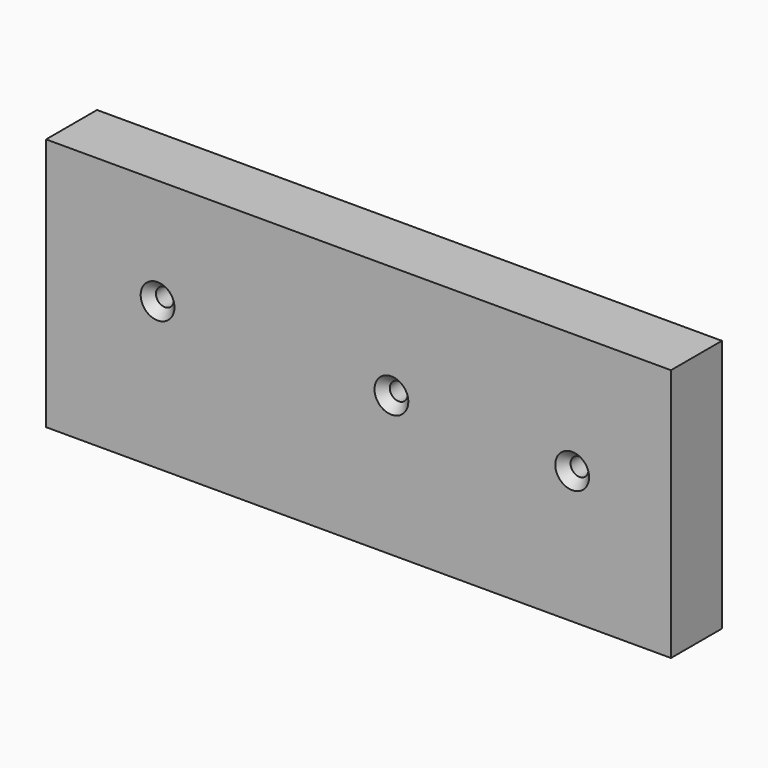
from build123d import *

# Parameters (mm, degrees)
F0_W           = 249.260224402
F0_H           = 101.0710969567
F1_DEPTH       = 25.4
F3_D           = 7.1374
F3_CSINK_D     = 13.4874
F3_CSINK_ANGLE = 82
F4_D           = 7.1374
F4_CSINK_D     = 13.4874
F4_CSINK_ANGLE = 82


with BuildPart() as f1:
    # F0 (on Front) → F1 (new body)
    with BuildSketch(Plane.XZ):
        with Locations((-1.5978179872, -13.5989002883)):
            Rectangle(F0_W, F0_H)
    extrude(amount=-F1_DEPTH)

    # F3 (through all)
    with Locations(Plane.XZ):
        with Locations((-81.7563086748, -5.4461751133)):
            CounterSinkHole(F3_D / 2, F3_CSINK_D / 2, counter_sink_angle=F3_CSINK_ANGLE)

    # F4 (through all)
    with Locations(Plane.XZ):
        with Locations((11.5190250799, -8.2076163962), (83.6233198643, -11.2758828327)):
            CounterSinkHole(F4_D / 2, F4_CSINK_D / 2, counter_sink_angle=F4_CSINK_ANGLE)


solid = f1.part
